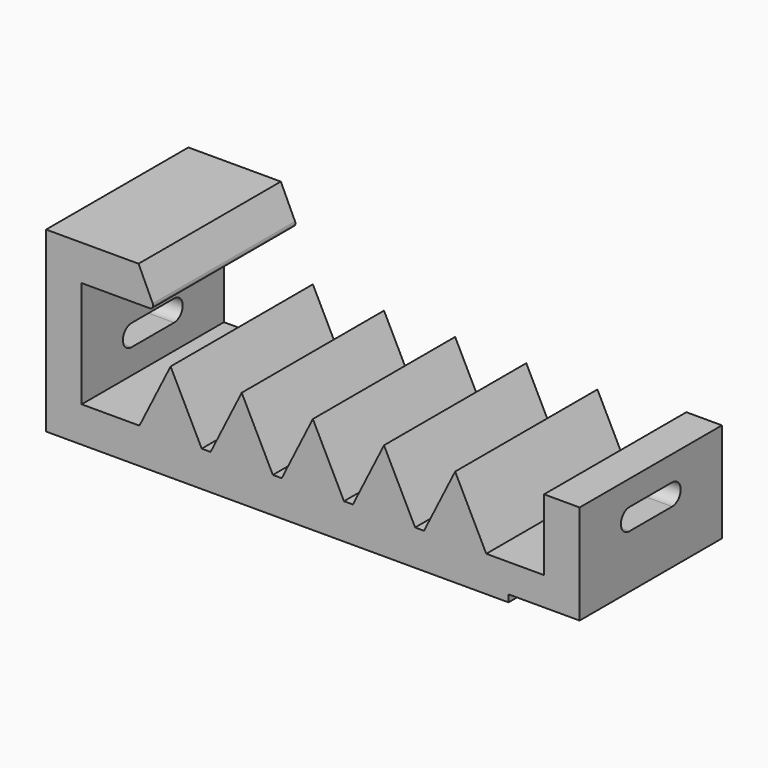
from build123d import *

# Parameters (mm, degrees)
PAD028_DEPTH    = 2.5
POCKET033_DEPTH = 2


with BuildPart() as part:
    # Sketch063 → Pad028 (new body, symmetric)
    with BuildSketch(Plane.XZ):
        with BuildLine():
            Line((-7.5, 0), (-7.5, 5))
            Line((-7.5, 5), (-4.89997, 5))
            Line((-4.89997, 5), (-4.5, 4.142262))
            ThreePointArc((-4.590631, 4), (-4.506292, 4.04627), (-4.5, 4.142262))
            Line((-4.590631, 4), (-6.5, 4))
            Line((-6.5, 4), (-6.5, 1))
            Line((-6.5, 1), (-5, 1))
            Line((-4.875, 1), (-5, 1))
            Line((-4.875, 1), (-4, 2.75))
            Line((-4, 2.75), (-3.125, 1))
            Line((-3.125, 1), (-2.875, 1))
            Line((-2.875, 1), (-2, 2.75))
            Line((-2, 2.75), (-1.125, 1))
            Line((-1.125, 1), (-0.875, 1))
            Line((-0.875, 1), (0, 2.75))
            Line((0, 2.75), (0.875, 1))
            Line((0.875, 1), (1.125, 1))
            Line((1.125, 1), (2, 2.75))
            Line((2, 2.75), (2.875, 1))
            Line((2.875, 1), (3.125, 1))
            Line((3.125, 1), (4, 2.75))
            Line((4, 2.75), (4.875, 1))
            Line((4.875, 1), (5, 1))
            Line((5, 1), (6.5, 1))
            Line((6.5, 1), (6.5, 3))
            Line((6.5, 3), (7.5, 3))
            Line((7.5, 3), (7.5, 0.2))
            Line((5.5, 0.2), (7.5, 0.2))
            Line((5.5, 0), (5.5, 0.2))
            Line((5.5, 0), (-7.5, 0))
        make_face()
    extrude(amount=PAD028_DEPTH, both=True)

    # Sketch062 (on Face28 of Pad028) → Pocket033 (cut)
    with BuildSketch(Plane(origin=(7.5, 0, 0), x_dir=(0, 0, 1), z_dir=(1, 0, 0))):
        with BuildLine():
            ThreePointArc((2.3, 0.75), (2, 1.05), (1.7, 0.75))
            Line((1.7, 0.75), (1.7, -0.75))
            ThreePointArc((1.7, -0.75), (2, -1.05), (2.3, -0.75))
            Line((2.3, 0.75), (2.3, -0.75))
        make_face()
    pocket033 = extrude(amount=-POCKET033_DEPTH, mode=Mode.SUBTRACT)

    # Mirrored003: Pocket033 across YZ
    add(pocket033.mirror(Plane.YZ), mode=Mode.SUBTRACT)


solid = part.part
